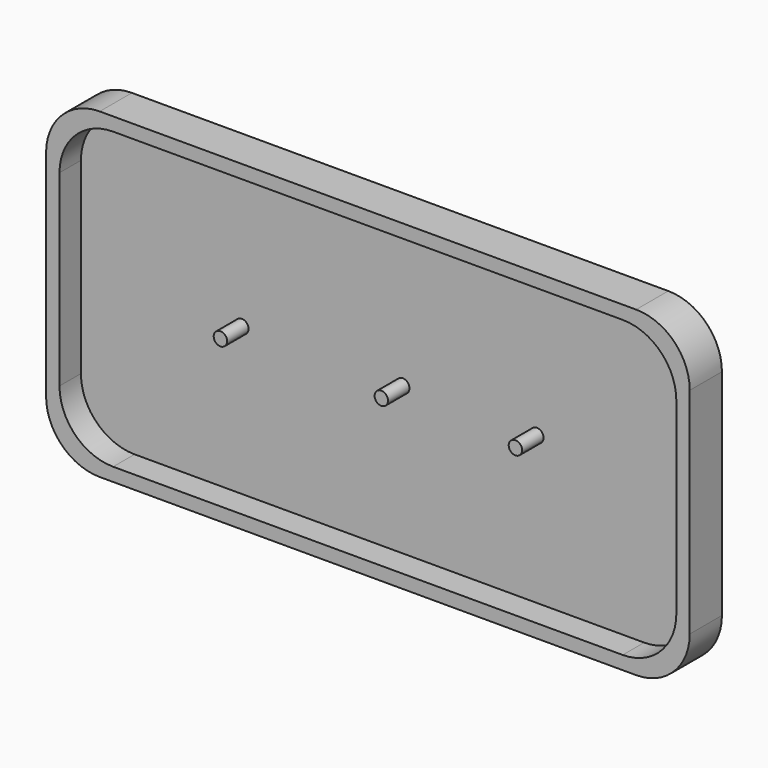
from build123d import *

# Parameters (mm, degrees)
F1_DEPTH = 19.05
F3_DEPTH = 12.7
F4_R     = 3.175
F5_DEPTH = 12.7


with BuildPart() as f1:
    # F0 (on Front) → F1 (new body)
    with BuildSketch(Plane.XZ):
        with BuildLine():
            Line((0, 127), (0, 25.4))
            ThreePointArc((0, 25.4), (7.439488, 7.439488), (25.4, 0))
            Line((25.4, 0), (279.4, 0))
            ThreePointArc((279.4, 0), (297.360512, 7.439488), (304.8, 25.4))
            Line((304.8, 25.4), (304.8, 127))
            ThreePointArc((304.8, 127), (297.360512, 144.960512), (279.4, 152.4))
            Line((279.4, 152.4), (25.4, 152.4))
            ThreePointArc((25.4, 152.4), (7.439488, 144.960512), (0, 127))
        make_face()
    extrude(amount=F1_DEPTH)

    # F2 (on face) → F3 (cut)
    with BuildSketch(Plane.XZ.offset(19.05)):
        with BuildLine():
            Line((6.35, 76.2), (6.35, 31.75))
            ThreePointArc((6.35, 31.75), (13.789488, 13.789488), (31.75, 6.35))
            Line((31.75, 6.35), (152.4, 6.35))
            Line((152.4, 6.35), (273.05, 6.35))
            ThreePointArc((273.05, 6.35), (291.010512, 13.789488), (298.45, 31.75))
            Line((298.45, 31.75), (298.45, 76.2))
            Line((298.45, 76.2), (298.45, 120.65))
            ThreePointArc((298.45, 120.65), (291.010512, 138.610512), (273.05, 146.05))
            Line((273.05, 146.05), (152.4, 146.05))
            Line((152.4, 146.05), (31.75, 146.05))
            ThreePointArc((31.75, 146.05), (13.789488, 138.610512), (6.35, 120.65))
            Line((6.35, 120.65), (6.35, 76.2))
        make_face()
    extrude(amount=-F3_DEPTH, mode=Mode.SUBTRACT)

    # F4 (on face) → F5 (join)
    with BuildSketch(Plane.XZ.offset(6.35)):
        with Locations((82.55, 76.2)):
            Circle(F4_R)
        with Locations((158.75, 76.2)):
            Circle(F4_R)
        with Locations((222.25, 76.2)):
            Circle(F4_R)
    extrude(amount=F5_DEPTH)


solid = f1.part
